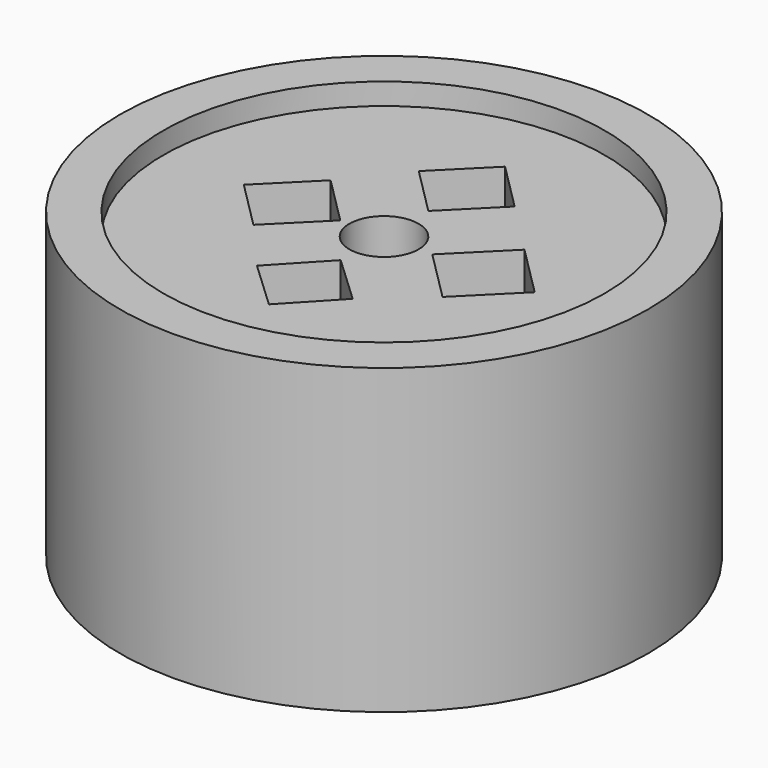
from build123d import *

# Parameters (mm, degrees)
F0_R     = 2.55
F0_R_2   = 0.4
F1_DEPTH = 1.5
F0_R_3   = 3.05
F2_DEPTH = 1.75


with BuildPart() as f1:
    # F0 (on Top) → F1 (new body, symmetric)
    with BuildSketch(Plane.XY):
        Circle(F0_R)
        Polygon((0.016979, -1.683443), (-0.539635, -1.160787), (-0.016979, -0.604173), (0.539635, -1.126829), align=None, mode=Mode.SUBTRACT)
        Polygon((-1.062697, -0.557362), (-1.620059, 0), (-1.062697, 0.557362), (-0.505335, 0), align=None, mode=Mode.SUBTRACT)
        Circle(F0_R_2, mode=Mode.SUBTRACT)
        Polygon((1.1496, -0.591661), (0.55794, 0), (1.1496, 0.591661), (1.741261, 0), align=None, mode=Mode.SUBTRACT)
        Polygon((0, 0.640351), (-0.554009, 1.19436), (0, 1.748368), (0.554009, 1.19436), align=None, mode=Mode.SUBTRACT)
    extrude(amount=F1_DEPTH, both=True)

    # F0 (on Top) → F2 (join, symmetric)
    with BuildSketch(Plane.XY):
        Circle(F0_R_3)
        Circle(F0_R, mode=Mode.SUBTRACT)
    extrude(amount=F2_DEPTH, both=True)


solid = f1.part
